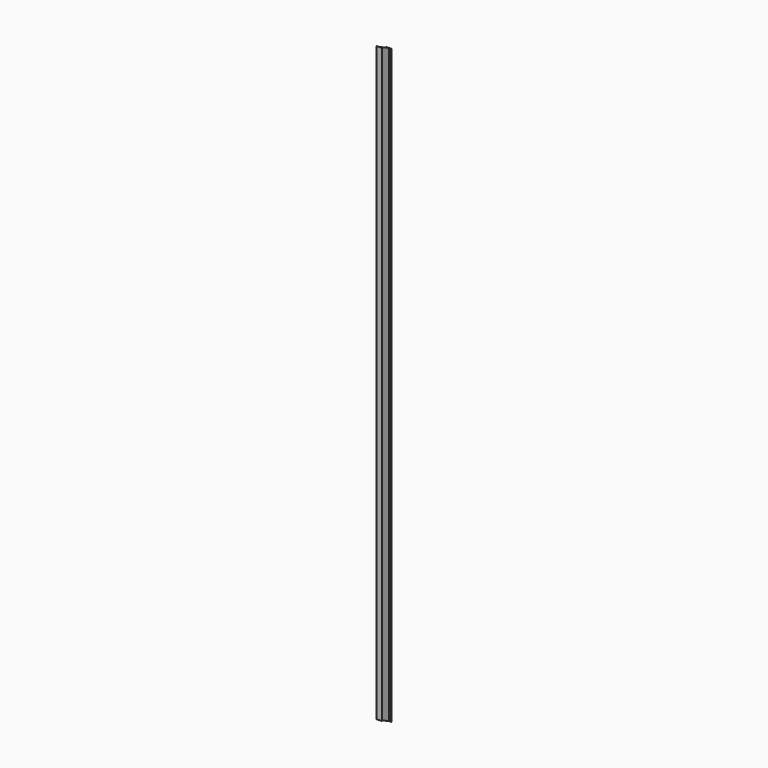
from build123d import *

# Parameters (mm, degrees)
F0_W     = 88.9
F0_H     = 203.2
F1_DEPTH = 10668
F2_W     = 39.6875
F2_H     = 193.04
F3_DEPTH = 10668.001
F5_DEPTH = 63.5


with BuildPart() as f1:
    # F0 (on Top) → F1 (new body)
    with BuildSketch(Plane.XY):
        Rectangle(F0_W, F0_H)
    extrude(amount=F1_DEPTH)

    # F2 (on Top) → F3 (cut, through all)
    with BuildSketch(Plane.XY):
        with Locations((-24.60625, 0)):
            Rectangle(F2_W, F2_H)
        with Locations((24.60625, 0)):
            Rectangle(F2_W, F2_H)
    extrude(amount=F3_DEPTH, mode=Mode.SUBTRACT)

    # F4 (on Right) → F5 (intersect, symmetric)
    with BuildSketch(Plane.YZ):
        Polygon((-101.6, 94.178147614), (101.6, 0), (101.6, 10078.3689684), (-101.6, 10172.547116014), align=None)
    extrude(amount=F5_DEPTH, both=True, mode=Mode.INTERSECT)


solid = f1.part
